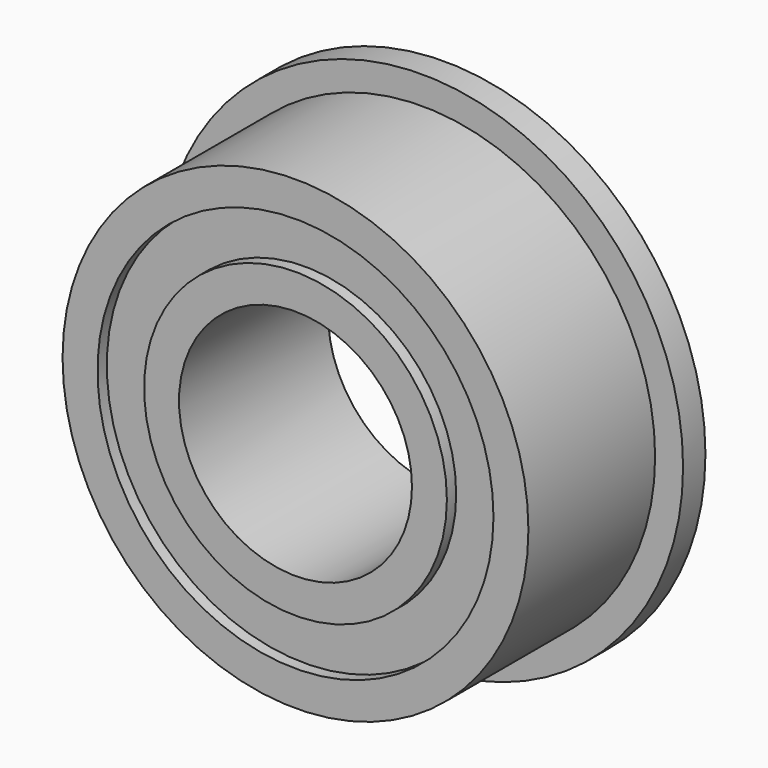
from build123d import *

# Parameters (mm, degrees)
F2_R      = 5.6
F2_R_2    = 5
F3_DEPTH  = 0.6
F4_R      = 5
F4_R_2    = 4.25
F5_DEPTH  = 4
F6_R      = 3.25
F6_R_2    = 2.5
F7_DEPTH  = 4
F9_R      = 4.25
F9_R_2    = 3.25
F10_DEPTH = 1.75


with BuildPart() as f3:
    # F2 (on Front) → F3 (new body)
    with BuildSketch(Plane.XZ):
        Circle(F2_R)
        Circle(F2_R_2, mode=Mode.SUBTRACT)
    extrude(amount=F3_DEPTH)

    # F4 (on Front) → F5 (join)
    with BuildSketch(Plane.XZ):
        Circle(F4_R)
        Circle(F4_R_2, mode=Mode.SUBTRACT)
    extrude(amount=F5_DEPTH)



with BuildPart() as f7:
    # F6 (on Front) → F7 (new body)
    with BuildSketch(Plane.XZ):
        Circle(F6_R)
        Circle(F6_R_2, mode=Mode.SUBTRACT)
    extrude(amount=F7_DEPTH)


with BuildPart() as f3_1:
    add(f3.part)

    add(f7.part)  # F10 merges F7
    # F9 (on offset) → F10 (join, symmetric)
    with BuildSketch(Plane.XZ.offset(2)):
        Circle(F9_R)
        Circle(F9_R_2, mode=Mode.SUBTRACT)
    extrude(amount=F10_DEPTH, both=True)


solid = f3_1.part
